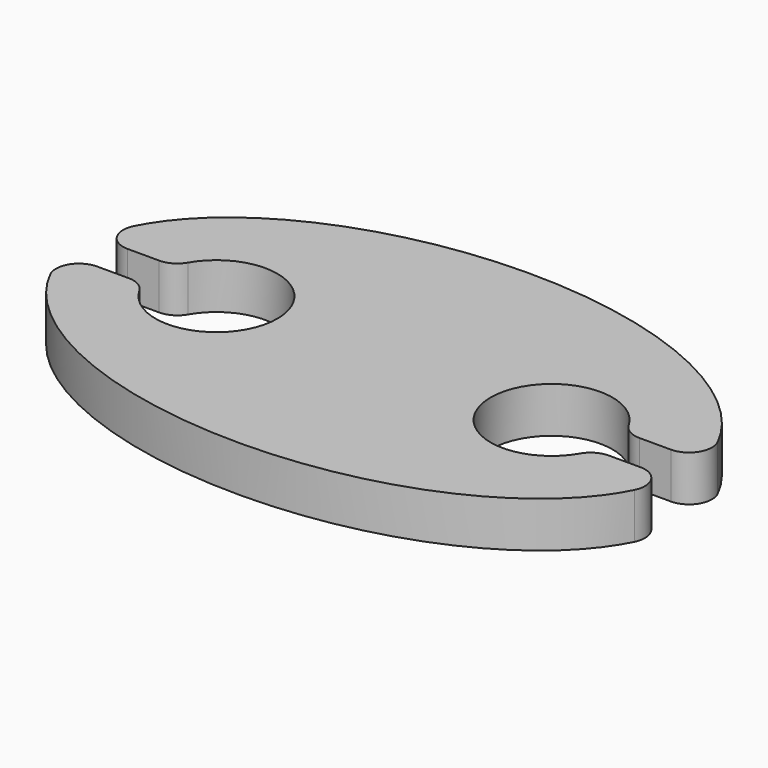
from build123d import *

# Parameters (mm, degrees)
F1_DEPTH = 3.81
F3_DEPTH = 3.8110001
F4_R     = 1.905
F5_R     = 1.905


with BuildPart() as f1:
    # F0 (on Top) → F1 (new body)
    with BuildSketch(Plane.XY):
        with BuildLine():
            Line((25.4, 0), (-25.4, 0))
            add(Edge.make_bspline(
                [(-25.4, 0), (-25.4, -15.24), (0, -15.24), (25.4, -15.24), (25.4, 0)],
                knots=[0, 0, 0, 1.5707963268, 1.5707963268, 3.1415926536, 3.1415926536, 3.1415926536], degree=2, weights=[1, 0.7071067812, 1, 0.7071067812, 1]))
        make_face()
        with BuildLine():
            add(Edge.make_bspline(
                [(25.4, 0), (25.4, 15.24), (0, 15.24), (-25.4, 15.24), (-25.4, 0)],
                knots=[3.1415926536, 3.1415926536, 3.1415926536, 4.7123889804, 4.7123889804, 6.2831853072, 6.2831853072, 6.2831853072], degree=2, weights=[1, 0.7071067812, 1, 0.7071067812, 1]))
            Line((-25.4, 0), (25.4, 0))
        make_face()
    extrude(amount=F1_DEPTH)

    # F2 (on Top) → F3 (cut, through all)
    with BuildSketch(Plane.XY):
        with BuildLine():
            ThreePointArc((18.7955822188, -1.5875), (18.9859923082, -0.8038788244), (19.05, 0))
            ThreePointArc((19.05, 0), (18.9859923082, 0.8038788244), (18.7955822188, 1.5875))
            ThreePointArc((18.7955822188, 1.5875), (8.89, 0), (18.7955822188, -1.5875))
        make_face()
        with BuildLine():
            ThreePointArc((18.7955822188, 1.5875), (18.9859923082, 0.8038788244), (19.05, 0))
            ThreePointArc((19.05, 0), (18.9859923082, -0.8038788244), (18.7955822188, -1.5875))
            Line((18.7955822188, -1.5875), (25.2618203218, -1.5875))
            ThreePointArc((25.2618203218, -1.5875), (27.3468412814, -0.2786884779), (25.7413380683, 1.5875))
            Line((25.7413380683, 1.5875), (18.7955822188, 1.5875))
        make_face()
        with BuildLine():
            ThreePointArc((-18.7955822188, -1.5875), (-13.1661211756, -5.0159923082), (-8.89, 0))
            ThreePointArc((-8.89, 0), (-13.1661211756, 5.0159923082), (-18.7955822188, 1.5875))
            ThreePointArc((-18.7955822188, 1.5875), (-19.05, 0), (-18.7955822188, -1.5875))
        make_face()
        with BuildLine():
            ThreePointArc((-18.7955822188, -1.5875), (-19.05, 0), (-18.7955822188, 1.5875))
            Line((-18.7955822188, 1.5875), (-24.9277395298, 1.5875))
            ThreePointArc((-24.9277395298, 1.5875), (-26.5152395298, 0), (-24.9277395298, -1.5875))
            Line((-24.9277395298, -1.5875), (-18.7955822188, -1.5875))
        make_face()
    extrude(amount=F3_DEPTH, mode=Mode.SUBTRACT)

    # F4
    f4_edges = [f1.edges().sort_by_distance(p)[0] for p in [
        (25.26182, 1.5875, 1.905),
        (-18.795582, -1.5875, 1.905),
        (-25.268192, 1.550564, 1.905),
        (-25.268192, -1.550564, 1.905),
        (18.795582, 1.5875, 1.905),
        (-18.795582, 1.5875, 1.905),
    ]]
    fillet(f4_edges, radius=F4_R)

    # F5
    f5_edges = [f1.edges().sort_by_distance(p)[0] for p in [
        (25.26182, -1.5875, 1.905),
        (18.795582, -1.5875, 1.905),
    ]]
    fillet(f5_edges, radius=F5_R)


solid = f1.part
